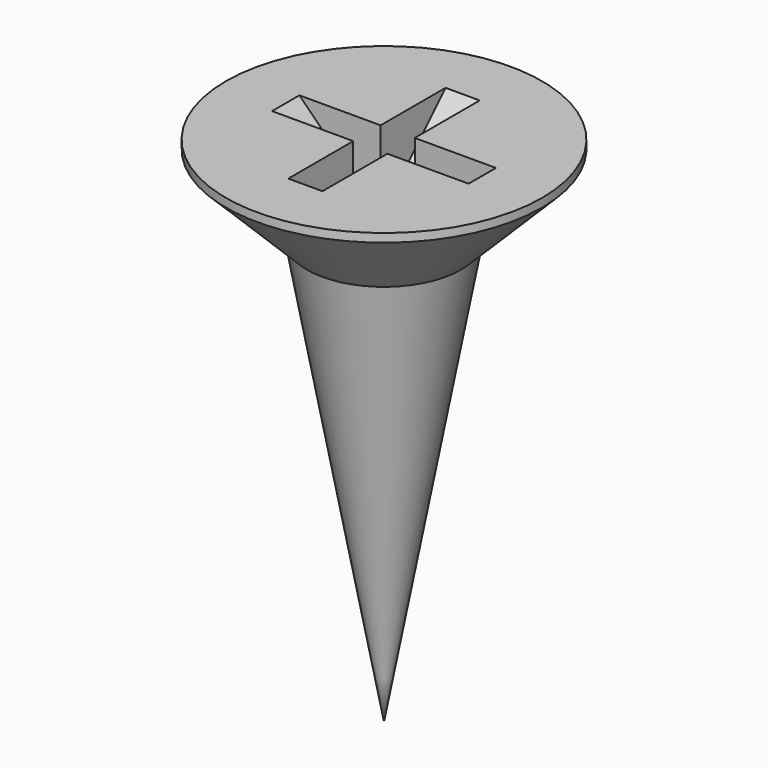
from build123d import *

# Parameters (mm, degrees)
POCKET042_DEPTH    = 0.2
POLARPATTERN_COUNT = 2
POLARPATTERN_ANGLE = 90


with BuildPart() as part:
    # Sketch074 → Revolution (revolve)
    with BuildSketch(Plane.XZ):
        Polygon((0, 0), (0, -6), (0.9, -1.0499999999), (1.85, -0.1), (1.85, 0), align=None)
    revolve(axis=Axis((0, 0, 0), (0, 0, 1)))

    # Sketch001 → Pocket042 (cut, symmetric)
    with BuildSketch(Plane.XZ):
        Polygon((-1.15, 0), (0, -1.15), (1.15, 0), align=None)
    pocket042 = extrude(amount=POCKET042_DEPTH, both=True, mode=Mode.SUBTRACT)

    # PolarPattern: Pocket042 ×2 about axis
    polarpattern_axis = Axis((0, 0, 0), (0, 0, 1))
    for i in range(1, POLARPATTERN_COUNT):
        add(pocket042.rotate(polarpattern_axis, i * POLARPATTERN_ANGLE / (POLARPATTERN_COUNT - 1)), mode=Mode.SUBTRACT)


with BuildPart() as part_1:
    # Body014 placement: moved
    add(part.part.moved(Location((7.8, -7.8, 6))))


solid = part_1.part
